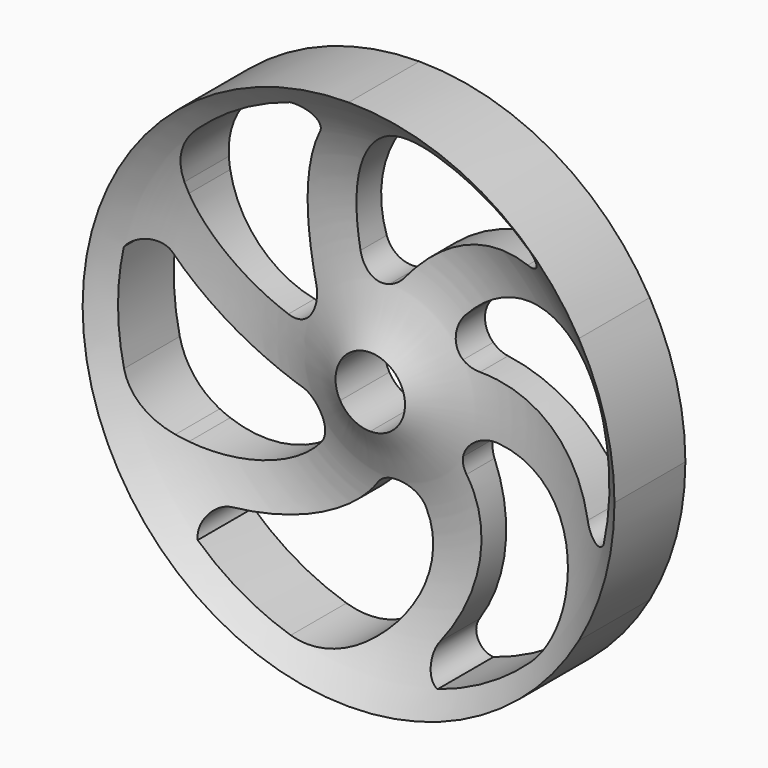
from build123d import *

# Parameters (mm, degrees)
F1_DEPTH = 25


with BuildPart() as f1:
    # F0 (on Front) → F1 (new body)
    with BuildSketch(Plane.XZ):
        with BuildLine():
            Line((-53.3662878051, 30.8110406299), (-62.3538290725, 36))
            ThreePointArc((-62.3538290725, 36), (-72, 0), (-62.3538290725, -36))
            Line((-62.3538290725, -36), (-53.3662878051, -30.8110406299))
            ThreePointArc((-53.3662878051, -30.8110406299), (-54.8546725738, -30.2225118658), (-56.3097876638, -29.5559569914))
            ThreePointArc((-56.3097876638, -29.5559569914), (-63.5771833972, -23.6882256369), (-67.5994108569, -15.2581011861))
            ThreePointArc((-67.5994108569, -15.2581011861), (-69.2998855165, -0.1259658875), (-67.6544330519, 15.0122512779))
            ThreePointArc((-67.6544330519, 15.0122512779), (-62.8914762963, 17.2308912128), (-58.5588589486, 14.2582581821))
            ThreePointArc((-58.5588589486, 14.2582581821), (-44.8348231332, -2.1107422975), (-24.991683366, -10.0191643867))
            ThreePointArc((-24.991683366, -10.0191643867), (-22.7450389067, -10.6877772203), (-20.8145184792, -12.017267847))
            Line((-20.8145184792, -12.017267847), (-11.43153533, -6.6))
            ThreePointArc((-11.43153533, -6.6), (-13.2, 0), (-11.43153533, 6.6))
            Line((-11.43153533, 6.6), (-20.8145184792, 12.017267847))
            ThreePointArc((-20.8145184792, 12.017267847), (-24.0729954273, 7.4503535809), (-29.5880815174, 6.4216634653))
            ThreePointArc((-29.5880815174, 6.4216634653), (-45.2438123186, 14.9441119227), (-53.3662878051, 30.8110406299))
        make_face()
        with BuildLine():
            Line((0, 61.6220812599), (0, 72))
            ThreePointArc((0, 72), (-36, 62.3538290725), (-62.3538290725, 36))
            Line((-62.3538290725, 36), (-53.3662878051, 30.8110406299))
            ThreePointArc((-53.3662878051, 30.8110406299), (-53.6007993289, 32.3942840323), (-53.7511034196, 33.9877281029))
            ThreePointArc((-53.7511034196, 33.9877281029), (-52.3031968708, 43.2153431046), (-47.0136086691, 50.9137564899))
            ThreePointArc((-47.0136086691, 50.9137564899), (-34.7590324169, 59.9524783928), (-20.8262255513, 66.0965833405))
            ThreePointArc((-20.8262255513, 66.0965833405), (-16.523348628, 63.0810617604), (-16.9314156749, 57.8425885571))
            ThreePointArc((-16.9314156749, 57.8425885571), (-24.2453680171, 37.7727246588), (-21.1726925666, 16.6338504849))
            ThreePointArc((-21.1726925666, 16.6338504849), (-20.6284060361, 14.3538928931), (-20.8145184792, 12.017267847))
            Line((-20.8145184792, 12.017267847), (-11.43153533, 6.6))
            ThreePointArc((-11.43153533, 6.6), (-6.6, 11.43153533), (0, 13.2))
            Line((0, 13.2), (0, 24.034535694))
            ThreePointArc((0, 24.034535694), (-5.5843022454, 24.5730023757), (-9.2327170632, 28.834861976))
            ThreePointArc((-9.2327170632, 28.834861976), (-9.6799255972, 46.6543467933), (0, 61.6220812599))
        make_face()
        with BuildLine():
            Line((53.3662878051, 30.8110406299), (62.3538290725, 36))
            ThreePointArc((62.3538290725, 36), (36, 62.3538290725), (0, 72))
            Line((0, 72), (0, 61.6220812599))
            ThreePointArc((0, 61.6220812599), (1.2538732449, 62.6167958981), (2.5586842442, 63.5436850943))
            ThreePointArc((2.5586842442, 63.5436850943), (11.2739865265, 66.9035687415), (20.5858021878, 66.1718576759))
            ThreePointArc((20.5858021878, 66.1718576759), (34.5408530996, 60.0784442804), (46.8282075006, 51.0843320626))
            ThreePointArc((46.8282075006, 51.0843320626), (46.3681276682, 45.8501705477), (41.6274432737, 43.5843303751))
            ThreePointArc((41.6274432737, 43.5843303751), (20.5894551161, 39.8834669563), (3.8189907994, 26.6530148717))
            ThreePointArc((3.8189907994, 26.6530148717), (2.1166328706, 25.0416701134), (0, 24.034535694))
            Line((0, 24.034535694), (0, 13.2))
            ThreePointArc((0, 13.2), (6.6, 11.43153533), (11.43153533, 6.6))
            Line((11.43153533, 6.6), (20.8145184792, 12.017267847))
            ThreePointArc((20.8145184792, 12.017267847), (18.4886931819, 17.1226487948), (20.3553644543, 22.4131985107))
            ThreePointArc((20.3553644543, 22.4131985107), (35.5638867214, 31.7102348706), (53.3662878051, 30.8110406299))
        make_face()
        with BuildLine():
            ThreePointArc((72, 0), (69.5466594928, 18.6349712474), (62.3538290725, 36))
            Line((62.3538290725, 36), (53.3662878051, 30.8110406299))
            ThreePointArc((53.3662878051, 30.8110406299), (54.8546725738, 30.2225118658), (56.3097876638, 29.5559569914))
            ThreePointArc((56.3097876638, 29.5559569914), (63.5771833972, 23.6882256369), (67.5994108569, 15.2581011861))
            ThreePointArc((67.5994108569, 15.2581011861), (69.2998855165, 0.1259658875), (67.6544330519, -15.0122512779))
            ThreePointArc((67.6544330519, -15.0122512779), (62.8914762963, -17.2308912128), (58.5588589486, -14.2582581821))
            ThreePointArc((58.5588589486, -14.2582581821), (44.8348231332, 2.1107422975), (24.991683366, 10.0191643867))
            ThreePointArc((24.991683366, 10.0191643867), (22.7450389067, 10.6877772203), (20.8145184792, 12.017267847))
            Line((20.8145184792, 12.017267847), (11.43153533, 6.6))
            ThreePointArc((11.43153533, 6.6), (12.750220907, 3.4164113954), (13.2, 0))
            ThreePointArc((13.2, 0), (12.750220907, -3.4164113954), (11.43153533, -6.6))
            Line((11.43153533, -6.6), (20.8145184792, -12.017267847))
            ThreePointArc((20.8145184792, -12.017267847), (24.0729954273, -7.4503535809), (29.5880815174, -6.4216634653))
            ThreePointArc((29.5880815174, -6.4216634653), (45.2438123186, -14.9441119227), (53.3662878051, -30.8110406299))
            Line((53.3662878051, -30.8110406299), (62.3538290725, -36))
            ThreePointArc((62.3538290725, -36), (69.5466594928, -18.6349712474), (72, 0))
        make_face()
        with BuildLine():
            ThreePointArc((0, -72), (36, -62.3538290725), (62.3538290725, -36))
            Line((62.3538290725, -36), (53.3662878051, -30.8110406299))
            ThreePointArc((53.3662878051, -30.8110406299), (53.6007993289, -32.3942840323), (53.7511034196, -33.9877281029))
            ThreePointArc((53.7511034196, -33.9877281029), (52.3031968708, -43.2153431046), (47.0136086691, -50.9137564899))
            ThreePointArc((47.0136086691, -50.9137564899), (34.7590324169, -59.9524783928), (20.8262255513, -66.0965833405))
            ThreePointArc((20.8262255513, -66.0965833405), (16.523348628, -63.0810617604), (16.9314156749, -57.8425885571))
            ThreePointArc((16.9314156749, -57.8425885571), (24.2453680171, -37.7727246588), (21.1726925666, -16.6338504849))
            ThreePointArc((21.1726925666, -16.6338504849), (20.6284060361, -14.3538928931), (20.8145184792, -12.017267847))
            Line((20.8145184792, -12.017267847), (11.43153533, -6.6))
            ThreePointArc((11.43153533, -6.6), (6.6, -11.43153533), (0, -13.2))
            Line((0, -13.2), (0, -24.034535694))
            ThreePointArc((0, -24.034535694), (5.5843022454, -24.5730023757), (9.2327170632, -28.834861976))
            ThreePointArc((9.2327170632, -28.834861976), (9.6799255972, -46.6543467933), (0, -61.6220812599))
            Line((0, -61.6220812599), (0, -72))
        make_face()
        with BuildLine():
            ThreePointArc((-62.3538290725, -36), (-36, -62.3538290725), (0, -72))
            Line((0, -72), (0, -61.6220812599))
            ThreePointArc((0, -61.6220812599), (-1.2538732449, -62.6167958981), (-2.5586842442, -63.5436850943))
            ThreePointArc((-2.5586842442, -63.5436850943), (-11.2739865265, -66.9035687415), (-20.5858021878, -66.1718576759))
            ThreePointArc((-20.5858021878, -66.1718576759), (-34.5408530996, -60.0784442804), (-46.8282075006, -51.0843320626))
            ThreePointArc((-46.8282075006, -51.0843320626), (-46.3681276682, -45.8501705477), (-41.6274432737, -43.5843303751))
            ThreePointArc((-41.6274432737, -43.5843303751), (-20.5894551161, -39.8834669563), (-3.8189907994, -26.6530148717))
            ThreePointArc((-3.8189907994, -26.6530148717), (-2.1166328706, -25.0416701134), (0, -24.034535694))
            Line((0, -24.034535694), (0, -13.2))
            ThreePointArc((0, -13.2), (-6.6, -11.43153533), (-11.43153533, -6.6))
            Line((-11.43153533, -6.6), (-20.8145184792, -12.017267847))
            ThreePointArc((-20.8145184792, -12.017267847), (-18.4886931819, -17.1226487948), (-20.3553644543, -22.4131985107))
            ThreePointArc((-20.3553644543, -22.4131985107), (-35.5638867214, -31.7102348706), (-53.3662878051, -30.8110406299))
            Line((-53.3662878051, -30.8110406299), (-62.3538290725, -36))
        make_face()
        with BuildLine():
            Line((62.3538290725, 36), (64.9519052838, 37.5))
            ThreePointArc((64.9519052838, 37.5), (37.5, 64.9519052838), (0, 75))
            Line((0, 75), (0, 72))
            ThreePointArc((0, 72), (36, 62.3538290725), (62.3538290725, 36))
        make_face()
        with BuildLine():
            Line((0, 72), (0, 75))
            ThreePointArc((0, 75), (-37.5, 64.9519052838), (-64.9519052838, 37.5))
            Line((-64.9519052838, 37.5), (-62.3538290725, 36))
            ThreePointArc((-62.3538290725, 36), (-36, 62.3538290725), (0, 72))
        make_face()
        with BuildLine():
            Line((-62.3538290725, 36), (-64.9519052838, 37.5))
            ThreePointArc((-64.9519052838, 37.5), (-75, 0), (-64.9519052838, -37.5))
            Line((-64.9519052838, -37.5), (-62.3538290725, -36))
            ThreePointArc((-62.3538290725, -36), (-72, 0), (-62.3538290725, 36))
        make_face()
        with BuildLine():
            ThreePointArc((-64.9519052838, -37.5), (-37.5, -64.9519052838), (0, -75))
            Line((0, -75), (0, -72))
            ThreePointArc((0, -72), (-36, -62.3538290725), (-62.3538290725, -36))
            Line((-62.3538290725, -36), (-64.9519052838, -37.5))
        make_face()
        with BuildLine():
            ThreePointArc((0, -75), (37.5, -64.9519052838), (64.9519052838, -37.5))
            Line((64.9519052838, -37.5), (62.3538290725, -36))
            ThreePointArc((62.3538290725, -36), (36, -62.3538290725), (0, -72))
            Line((0, -72), (0, -75))
        make_face()
        with BuildLine():
            ThreePointArc((64.9519052838, -37.5), (72.4444369717, -19.4114283827), (75, 0))
            ThreePointArc((75, 0), (72.4444369717, 19.4114283827), (64.9519052838, 37.5))
            Line((64.9519052838, 37.5), (62.3538290725, 36))
            ThreePointArc((62.3538290725, 36), (69.5466594928, 18.6349712474), (72, 0))
            ThreePointArc((72, 0), (69.5466594928, -18.6349712474), (62.3538290725, -36))
            Line((62.3538290725, -36), (64.9519052838, -37.5))
        make_face()
        with BuildLine():
            Line((8.4870489571, 4.9), (11.43153533, 6.6))
            ThreePointArc((11.43153533, 6.6), (6.6, 11.43153533), (0, 13.2))
            Line((0, 13.2), (0, 9.8))
            ThreePointArc((0, 9.8), (4.9, 8.4870489571), (8.4870489571, 4.9))
        make_face()
        with BuildLine():
            ThreePointArc((13.2, 0), (12.750220907, 3.4164113954), (11.43153533, 6.6))
            Line((11.43153533, 6.6), (8.4870489571, 4.9))
            ThreePointArc((8.4870489571, 4.9), (9.4660730976, 2.536426642), (9.8, 0))
            ThreePointArc((9.8, 0), (9.4660730976, -2.536426642), (8.4870489571, -4.9))
            Line((8.4870489571, -4.9), (11.43153533, -6.6))
            ThreePointArc((11.43153533, -6.6), (12.750220907, -3.4164113954), (13.2, 0))
        make_face()
        with BuildLine():
            ThreePointArc((0, -13.2), (6.6, -11.43153533), (11.43153533, -6.6))
            Line((11.43153533, -6.6), (8.4870489571, -4.9))
            ThreePointArc((8.4870489571, -4.9), (4.9, -8.4870489571), (0, -9.8))
            Line((0, -9.8), (0, -13.2))
        make_face()
        with BuildLine():
            ThreePointArc((-11.43153533, -6.6), (-6.6, -11.43153533), (0, -13.2))
            Line((0, -13.2), (0, -9.8))
            ThreePointArc((0, -9.8), (-4.9, -8.4870489571), (-8.4870489571, -4.9))
            Line((-8.4870489571, -4.9), (-11.43153533, -6.6))
        make_face()
        with BuildLine():
            Line((-8.4870489571, 4.9), (-11.43153533, 6.6))
            ThreePointArc((-11.43153533, 6.6), (-13.2, 0), (-11.43153533, -6.6))
            Line((-11.43153533, -6.6), (-8.4870489571, -4.9))
            ThreePointArc((-8.4870489571, -4.9), (-9.8, 0), (-8.4870489571, 4.9))
        make_face()
        with BuildLine():
            Line((0, 9.8), (0, 13.2))
            ThreePointArc((0, 13.2), (-6.6, 11.43153533), (-11.43153533, 6.6))
            Line((-11.43153533, 6.6), (-8.4870489571, 4.9))
            ThreePointArc((-8.4870489571, 4.9), (-4.9, 8.4870489571), (0, 9.8))
        make_face()
    extrude(amount=-F1_DEPTH)

    # F2 (on Top) → F3 (revolve, cut)
    with BuildSketch(Plane.XY):
        with BuildLine():
            Line((-75, 0), (-1, 0))
            ThreePointArc((-1, 0), (-38, 16.3696565584), (-75, 0))
        make_face()
    revolve(axis=Axis((0, 22.5, 0), (0, 1, 0)), mode=Mode.SUBTRACT)


solid = f1.part
